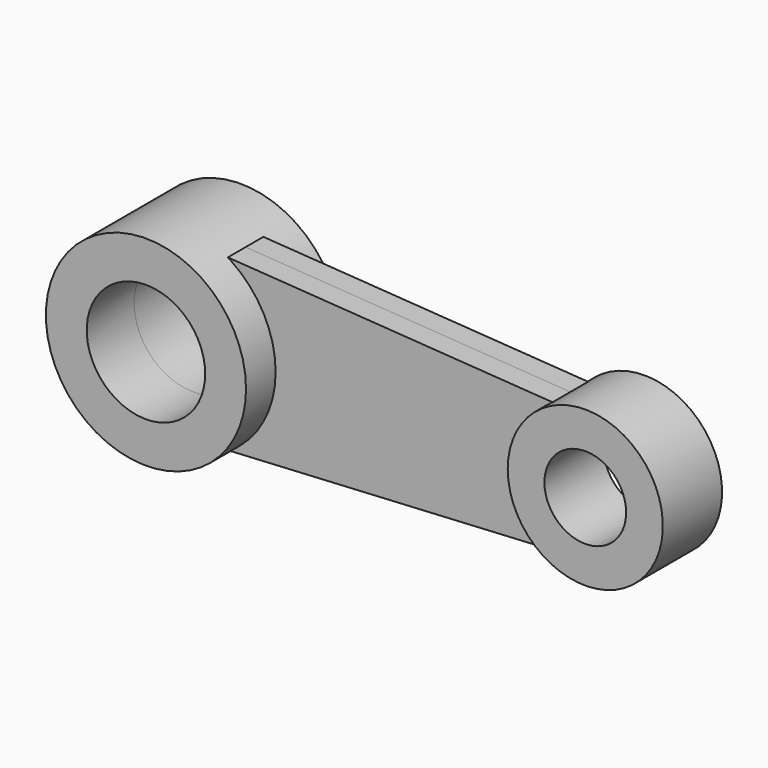
from build123d import *

# Parameters (mm, degrees)
F1_DEPTH = 15.875
F0_R     = 42.926
F0_R_2   = 25.4
F2_DEPTH = 25.4
F3_DEPTH = 25.4
F4_DEPTH = 15.875
F6_DEPTH = 9.525
F7_DEPTH = 9.525


with BuildPart() as f1:
    # F0 (on Front) → F1 (new body)
    with BuildSketch(Plane.XZ):
        with BuildLine():
            ThreePointArc((149.141068, 0), (115.867068, 33.274), (82.593068, 0))
            ThreePointArc((82.593068, 0), (115.867068, -33.274), (149.141068, 0))
        make_face()
        with BuildLine():
            ThreePointArc((133.393068, 0), (115.867068, -17.526), (98.341068, 0))
            ThreePointArc((98.341068, 0), (115.867068, 17.526), (133.393068, 0))
        make_face(mode=Mode.SUBTRACT)
    extrude(amount=F1_DEPTH)

    # F0 (on Front) → F4 (join)
    with BuildSketch(Plane.XZ):
        with BuildLine():
            ThreePointArc((149.141068, 0), (115.867068, 33.274), (82.593068, 0))
            ThreePointArc((82.593068, 0), (115.867068, -33.274), (149.141068, 0))
        make_face()
        with BuildLine():
            ThreePointArc((133.393068, 0), (115.867068, -17.526), (98.341068, 0))
            ThreePointArc((98.341068, 0), (115.867068, 17.526), (133.393068, 0))
        make_face(mode=Mode.SUBTRACT)
    extrude(amount=-F4_DEPTH)


with BuildPart() as f2:
    # F0 (on Front) → F2 (new body)
    with BuildSketch(Plane.XZ):
        with Locations((-64.980932, 0)):
            Circle(F0_R)
        with Locations((-64.980932, 0)):
            Circle(F0_R_2, mode=Mode.SUBTRACT)
    extrude(amount=F2_DEPTH)

    # F0 (on Front) → F3 (join)
    with BuildSketch(Plane.XZ):
        with Locations((-64.980932, 0)):
            Circle(F0_R)
        with Locations((-64.980932, 0)):
            Circle(F0_R_2, mode=Mode.SUBTRACT)
    extrude(amount=-F3_DEPTH)


with BuildPart() as f6:
    # F5 (on Front) → F6 (new body)
    with BuildSketch(Plane.XZ):
        Polygon((97.087689, 27.163437), (-42.550076, 36.59654), (-42.550076, -36.237787), (97.087689, -28.649395), align=None)
    extrude(amount=F6_DEPTH)


with BuildPart() as f7:
    # F6_face (on face) → F7 (new body)
    with BuildSketch(Plane(origin=(24.189527, 0, -0.261462), x_dir=(1, 0, 0), z_dir=(0, 1, 0))):
        Polygon((-66.739602, 35.976326), (-66.739602, -36.858002), (72.898162, -27.424898), (72.898162, 28.387934), align=None)
    extrude(amount=F7_DEPTH)


solid = Compound([f1.part, f2.part, f6.part, f7.part])
